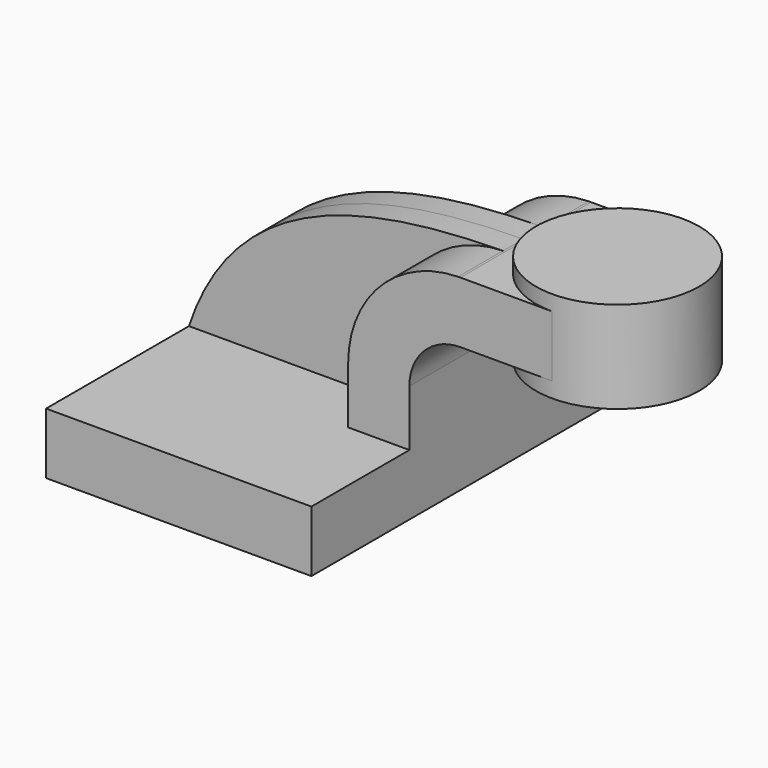
from build123d import *

# Parameters (mm, degrees)
F1_DEPTH = 63.5
F0_W     = 25.4
F0_H     = 19.05
F2_DEPTH = 25.4
F3_DEPTH = 7.9375


with BuildPart() as f1:
    # F0 (on Front) → F1 (new body, symmetric)
    with BuildSketch(Plane.XZ):
        Polygon((-41.275, -9.525), (41.275, -9.525), (41.275, 9.525), (22.225, 9.525), (-41.275, 9.525), align=None)
    extrude(amount=F1_DEPTH, both=True)

    # F0 (on Front) → F2 (join, symmetric)
    with BuildSketch(Plane.XZ):
        with BuildLine():
            Line((22.225, 9.525), (41.275, 9.525))
            Line((41.275, 9.525), (41.275, 27.0002))
            ThreePointArc((41.275, 27.0002), (45.9246798487, 38.2255201513), (57.15, 42.8752))
            Line((57.15, 42.8752), (60.325, 42.8752))
            Line((60.325, 42.8752), (60.325, 61.9252))
            Line((60.325, 61.9252), (57.15, 61.9252))
            add(Edge.make_bspline(
                [(56.4347952679, 61.9178761425), (56.6731549008, 61.920563236), (56.9115579755, 61.9230028803), (57.15, 61.9252)],
                knots=[110.8800193366, 110.8800193366, 110.8800193366, 110.8800193366, 111.5045361635, 111.5045361635, 111.5045361635, 111.5045361635], degree=3))
            ThreePointArc((56.4347952679, 61.9178761425), (32.2027140728, 51.4417332961), (22.225, 27.0002))
            Line((22.225, 27.0002), (22.225, 9.525))
        make_face()
        with Locations((73.025, 52.4002)):
            Rectangle(F0_W, F0_H)
    extrude(amount=F2_DEPTH, both=True)

    # F0 (on Front) → F3 (join, symmetric)
    with BuildSketch(Plane.XZ):
        with BuildLine():
            add(Edge.make_bspline(
                [(-41.275, 9.525), (-26.8350750497, 53.1635386099), (14.1151658157, 61.4407953484), (56.4347952679, 61.9178761425)],
                knots=[0, 0, 0, 0, 110.8800193366, 110.8800193366, 110.8800193366, 110.8800193366], degree=3))
            Line((-41.275, 9.525), (22.225, 9.525))
            Line((22.225, 9.525), (22.225, 27.0002))
            ThreePointArc((22.225, 27.0002), (32.2027140728, 51.4417332961), (56.4347952679, 61.9178761425))
        make_face()
    extrude(amount=F3_DEPTH, both=True)

    # F0 (on Front) → F4 (revolve)
    with BuildSketch(Plane.XZ):
        Polygon((85.725, 61.9252), (85.725, 42.8752), (85.725, 38.1), (111.125, 38.1), (111.125, 66.675), (85.725, 66.675), align=None)
    revolve(axis=Axis((85.725, 0, 52.3875), (0, 0, -1)))


solid = f1.part
